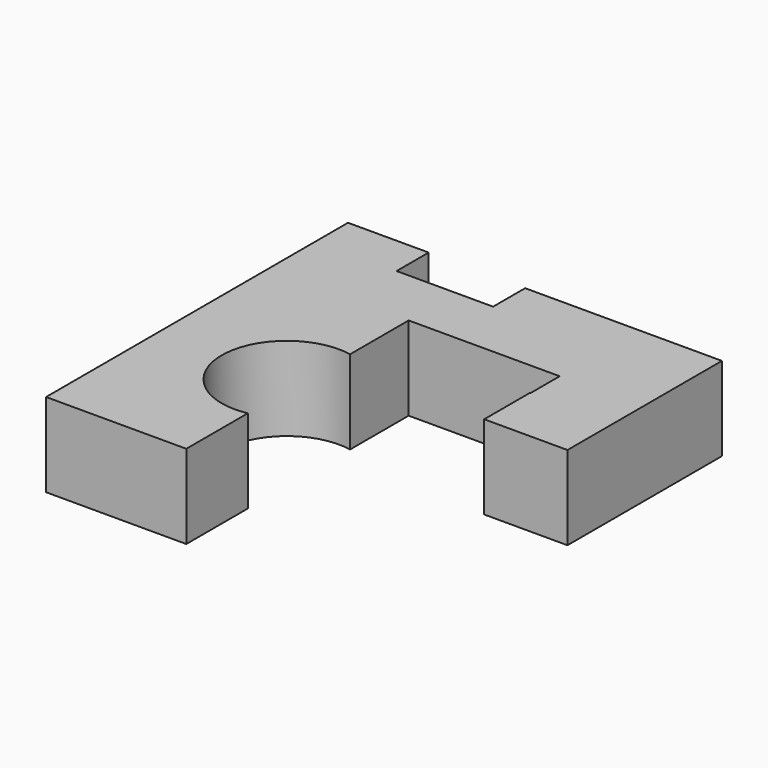
from build123d import *

# Parameters (mm, degrees)
F1_DEPTH = 2


with BuildPart() as f1:
    # F0 (on Top) → F1 (new body)
    with BuildSketch(Plane.XY):
        with BuildLine():
            Line((0, 9), (0, 0))
            Line((0, 0), (3.343781, 0))
            Line((3.343781, 0), (3.343781, 1.832761))
            ThreePointArc((3.343781, 1.832761), (1.502494, 3.357977), (3.343781, 4.883193))
            Line((3.343781, 4.883193), (3.343781, 6.628936))
            Line((3.343781, 6.628936), (6.945667, 6.628936))
            Line((6.945667, 6.628936), (6.945667, 5.751214))
            Line((6.945667, 5.751214), (6.931864, 5.751214))
            Line((6.931864, 5.751214), (6.931864, 4.395805))
            Line((6.931864, 4.395805), (8.91781, 4.395805))
            Line((8.91781, 4.395805), (8.91781, 9))
            Line((8.91781, 9), (4.224609, 9))
            Line((4.224609, 9), (4.224609, 8.044908))
            Line((4.224609, 8.044908), (1.923485, 8.044908))
            Line((1.923485, 8.044908), (1.923485, 9))
            Line((1.923485, 9), (0, 9))
        make_face()
    extrude(amount=F1_DEPTH)


solid = f1.part
